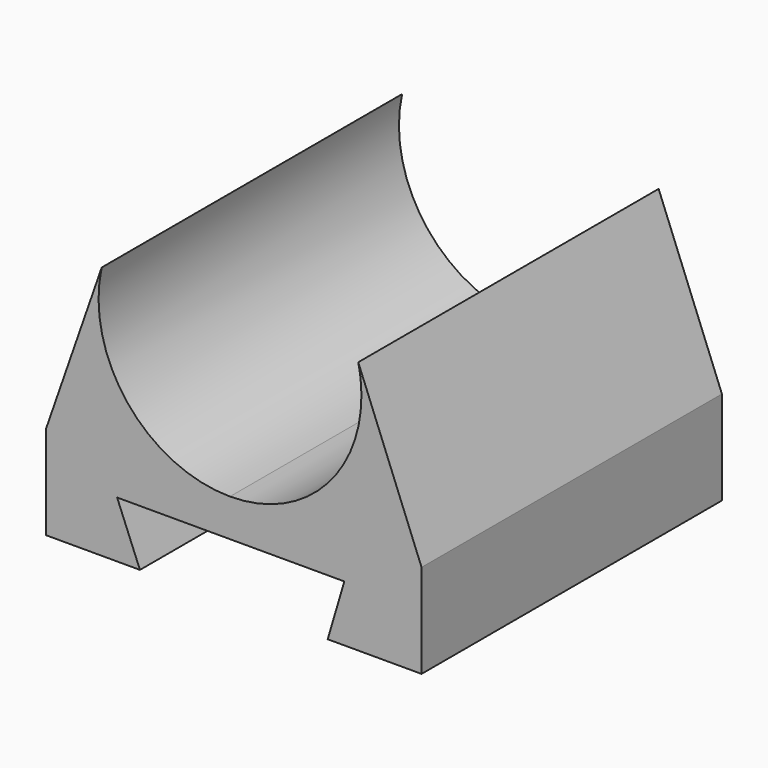
from build123d import *

# Parameters (mm, degrees)
F1_DEPTH = 254


with BuildPart() as f1:
    # F0 (on Front) → F1 (new body)
    with BuildSketch(Plane.XZ):
        Polygon((124.411419, 0), (0, 0), (0, -63.5), (63.5, -63.5), (48.04277, -25.4), (201.770738, -25.4), (190.5, -63.5), (254, -63.5), (254, 0), align=None)
        with BuildLine():
            Line((37.633552, 108.208333), (0, 0))
            Line((0, 0), (124.411419, 0))
            ThreePointArc((124.411419, 0), (55.058262, 33.282111), (37.633552, 108.208333))
        make_face()
        with BuildLine():
            ThreePointArc((213.311419, 88.9), (187.273212, 26.038207), (124.411419, 0))
            Line((124.411419, 0), (254, 0))
            Line((254, 0), (211.189286, 108.208333))
            ThreePointArc((211.189286, 108.208333), (212.779293, 98.612301), (213.311419, 88.9))
        make_face()
    extrude(amount=F1_DEPTH)


solid = f1.part
